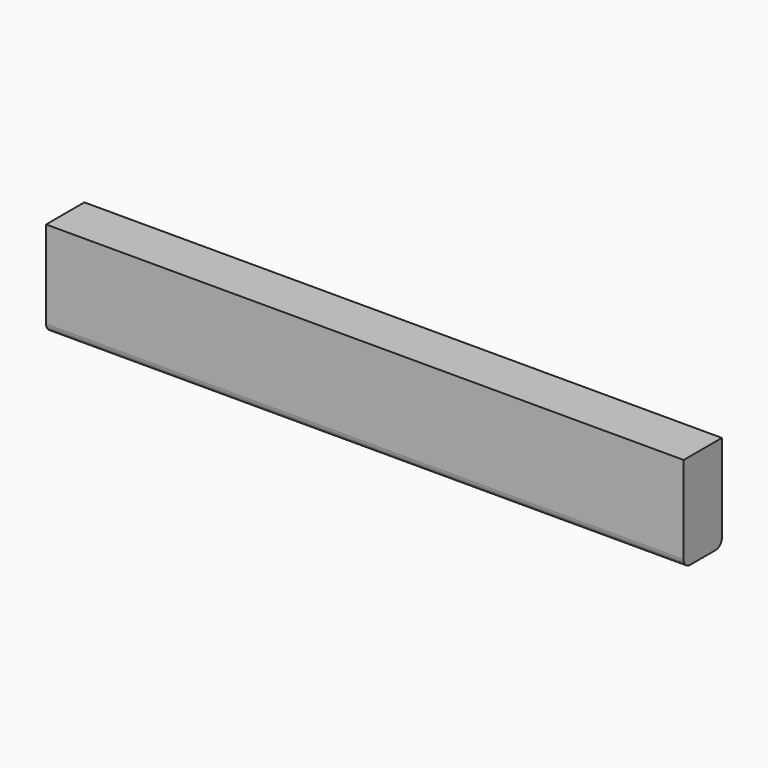
from build123d import *

# Parameters (mm, degrees)
F1_DEPTH = 254


with BuildPart() as f1:
    # F0 (on Right) → F1 (new body, symmetric)
    with BuildSketch(Plane.YZ):
        with BuildLine():
            Line((6.35, 0), (31.75, 0))
            ThreePointArc((31.75, 0), (36.240128, 1.859872), (38.1, 6.35))
            Line((38.1, 6.35), (38.1, 76.2))
            Line((38.1, 76.2), (0, 76.2))
            Line((0, 76.2), (0, 6.35))
            ThreePointArc((0, 6.35), (1.859872, 1.859872), (6.35, 0))
        make_face()
    extrude(amount=F1_DEPTH, both=True)


solid = f1.part
